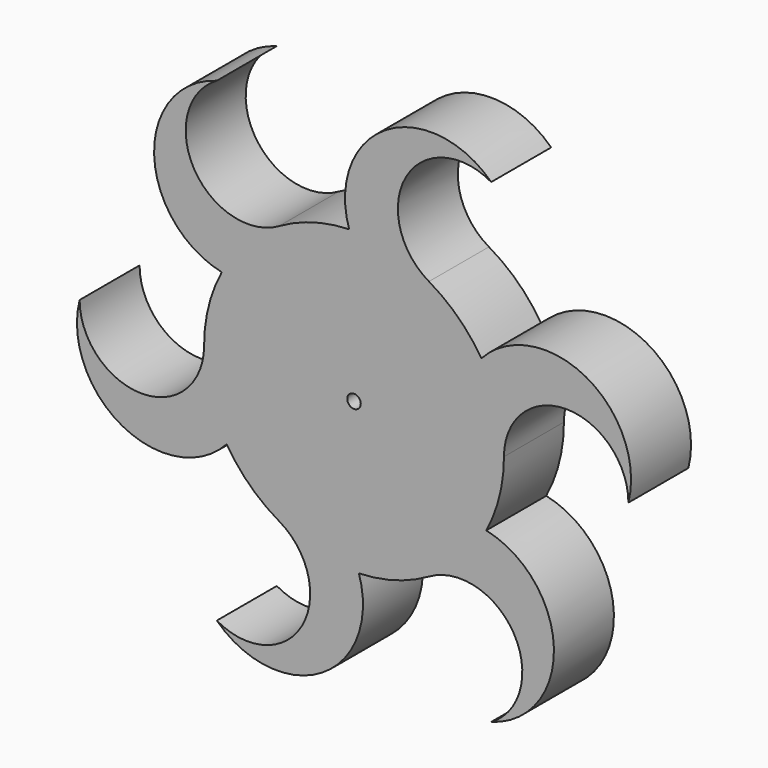
from build123d import *

# Parameters (mm, degrees)
F0_R     = 0.5715
F1_DEPTH = 6.35


with BuildPart() as f1:
    # F0 (on Front) → F1 (new body)
    with BuildSketch(Plane.XZ):
        with BuildLine():
            ThreePointArc((23.241, 0), (19.630978, 8.215892), (10.784784, 6.706597))
            ThreePointArc((10.784784, 6.706597), (8.832064, 9.126042), (6.35, 10.998523))
            ThreePointArc((6.35, 10.998523), (4.420863, 18.19816), (11.6205, 20.127296))
            ThreePointArc((11.6205, 20.127296), (2.700318, 21.108872), (-0.415691, 12.693195))
            ThreePointArc((-0.415691, 12.693195), (-3.487352, 12.211813), (-6.35, 10.998523))
            ThreePointArc((-6.35, 10.998523), (-13.549637, 12.92766), (-11.6205, 20.127296))
            ThreePointArc((-11.6205, 20.127296), (-16.93066, 12.89298), (-11.200475, 5.986598))
            ThreePointArc((-11.200475, 5.986598), (-12.319416, 3.085771), (-12.7, 0))
            ThreePointArc((-12.7, 0), (-17.9705, -5.2705), (-23.241, 0))
            ThreePointArc((-23.241, 0), (-19.630978, -8.215892), (-10.784784, -6.706597))
            ThreePointArc((-10.784784, -6.706597), (-8.832064, -9.126042), (-6.35, -10.998523))
            ThreePointArc((-6.35, -10.998523), (-4.420863, -18.19816), (-11.6205, -20.127296))
            ThreePointArc((-11.6205, -20.127296), (-2.700318, -21.108872), (0.415691, -12.693195))
            ThreePointArc((0.415691, -12.693195), (3.487352, -12.211813), (6.35, -10.998523))
            ThreePointArc((6.35, -10.998523), (13.549637, -12.92766), (11.6205, -20.127296))
            ThreePointArc((11.6205, -20.127296), (16.93066, -12.89298), (11.200475, -5.986598))
            ThreePointArc((11.200475, -5.986598), (12.319416, -3.085771), (12.7, 0))
            ThreePointArc((12.7, 0), (17.9705, 5.2705), (23.241, 0))
        make_face()
        Circle(F0_R, mode=Mode.SUBTRACT)
    extrude(amount=F1_DEPTH)


solid = f1.part
